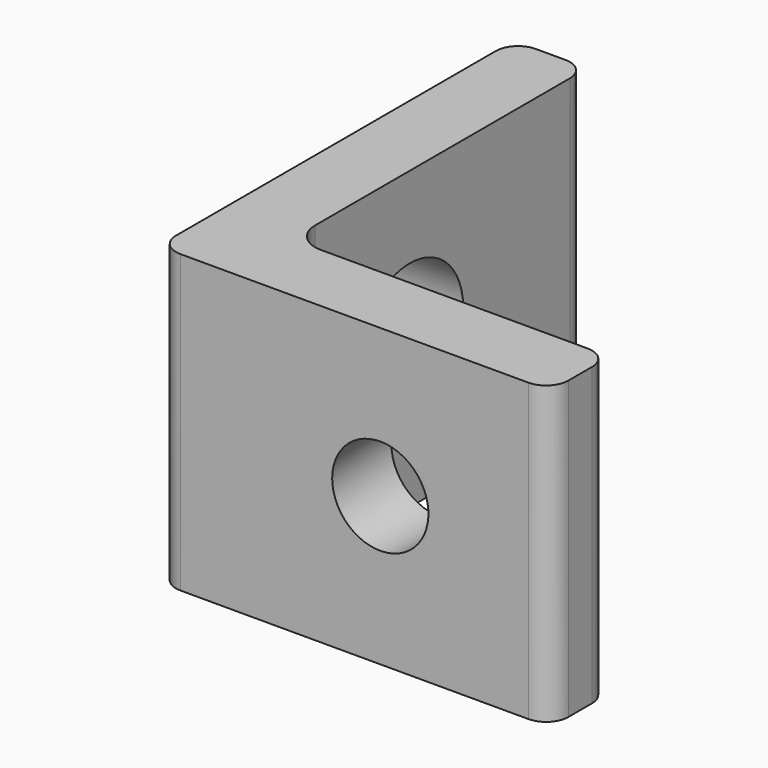
from build123d import *

# Parameters (mm, degrees)
PAD_DEPTH       = 20
SKETCH001_R     = 4.5
POCKET_DEPTH    = 5
SKETCH002_R     = 3.25
POCKET001_DEPTH = 5


with BuildPart() as part:
    # Sketch → Pad (new body)
    with BuildSketch(Plane.XY):
        with BuildLine():
            Line((0, 28.5), (0, 1.5))
            ThreePointArc((0, 1.5), (0.43934, 0.43934), (1.5, 0))
            Line((1.5, 0), (25, 0))
            ThreePointArc((25, 0), (26.06066, 0.43934), (26.5, 1.5))
            Line((26.5, 1.5), (26.5, 3.5))
            ThreePointArc((26.5, 3.5), (26.06066, 4.56066), (25, 5))
            Line((25, 5), (7, 5))
            ThreePointArc((5, 7), (5.585786, 5.585786), (7, 5))
            Line((5, 7), (5, 28.5))
            ThreePointArc((5, 28.5), (4.56066, 29.56066), (3.5, 30))
            Line((3.5, 30), (1.5, 30))
            ThreePointArc((1.5, 30), (0.43934, 29.56066), (0, 28.5))
        make_face()
    extrude(amount=PAD_DEPTH)

    # Sketch001 (on Face1 of Pad) → Pocket (cut)
    with BuildSketch(Plane.YZ.offset(5)):
        with Locations((15, 10)):
            Circle(SKETCH001_R)
    extrude(amount=-POCKET_DEPTH, mode=Mode.SUBTRACT)

    # Sketch002 (on Face7 of Pocket) → Pocket001 (cut)
    with BuildSketch(Plane(origin=(0, 5, 0), x_dir=(-1, 0, 0), z_dir=(0, 1, 0))):
        with Locations((-15, 10)):
            Circle(SKETCH002_R)
    extrude(amount=-POCKET001_DEPTH, mode=Mode.SUBTRACT)


solid = part.part
